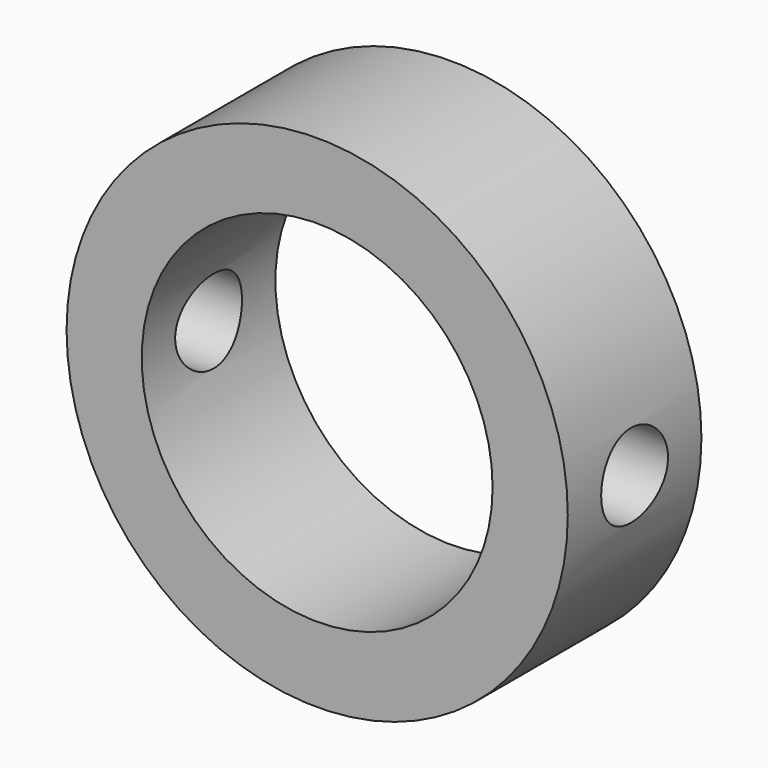
from build123d import *

# Parameters (mm, degrees)
F0_R     = 19.05
F0_R_2   = 13.335
F1_DEPTH = 6.35
F3_D     = 6.35
F4_D     = 6.35


with BuildPart() as f1:
    # F0 (on Front) → F1 (new body, symmetric)
    with BuildSketch(Plane.XZ):
        Circle(F0_R)
        Circle(F0_R_2, mode=Mode.SUBTRACT)
    extrude(amount=F1_DEPTH, both=True)

    # F3 (through all)
    with Locations(Plane(origin=(0, 0, 0), x_dir=(0, 1, 0), z_dir=(-1, 0, 0))):
        with Locations((0, 0)):
            Hole(F3_D / 2)

    # F4 (through all)
    with Locations(Plane.YZ):
        with Locations((0, 0)):
            Hole(F4_D / 2)


solid = f1.part
